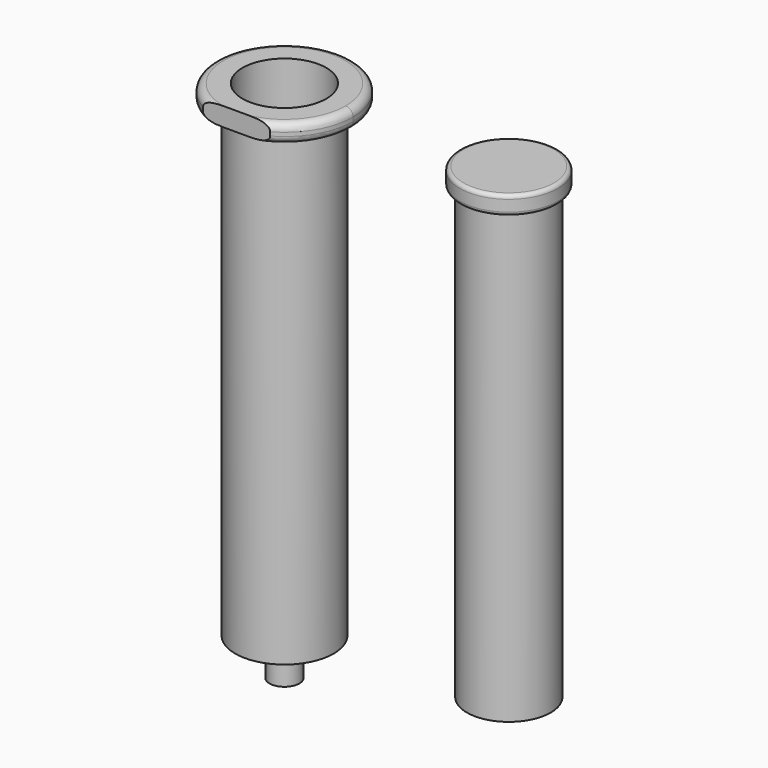
from build123d import *

# Parameters (mm, degrees)
F0_R     = 13.15
F0_R_2   = 11.2
F1_DEPTH = 5
F2_DEPTH = 120
F3_R     = 13.15
F3_R_2   = 11.2
F3_R_3   = 4
F4_DEPTH = 5
F5_DEPTH = 15
F6_R     = 2
F7_R     = 13.1
F7_R_2   = 11.2
F8_DEPTH = 5
F9_DEPTH = 120
F10_R    = 1


with BuildPart() as f1:
    # F0 (on Top) → F1 (new body)
    with BuildSketch(Plane.XY):
        with BuildLine():
            ThreePointArc((8.9845701066, -16), (15.8364983733, -9.2697259545), (18.35, 0))
            ThreePointArc((18.35, 0), (-9.2697259545, 15.8364983733), (-8.9845701066, -16))
            Line((-8.9845701066, -16), (8.9845701066, -16))
        make_face()
        Circle(F0_R, mode=Mode.SUBTRACT)
        Circle(F0_R)
        Circle(F0_R_2, mode=Mode.SUBTRACT)
    extrude(amount=F1_DEPTH)

    # F0 (on Top) → F2 (join)
    with BuildSketch(Plane.XY):
        Circle(F0_R)
        Circle(F0_R_2, mode=Mode.SUBTRACT)
    extrude(amount=-F2_DEPTH)

    # F3 (on face) → F4 (join)
    with BuildSketch(Plane(origin=(0, 0, -120), x_dir=(1, 0, 0), z_dir=(0, 0, -1))):
        Circle(F3_R)
        Circle(F3_R_2, mode=Mode.SUBTRACT)
        Circle(F3_R_2)
        Circle(F3_R_3, mode=Mode.SUBTRACT)
    extrude(amount=F4_DEPTH)

    # F3 (on face) → F5 (join)
    with BuildSketch(Plane(origin=(0, 0, -120), x_dir=(1, 0, 0), z_dir=(0, 0, -1))):
        Circle(F3_R_3)
    extrude(amount=F5_DEPTH)

    # F6
    f6_edges = [f1.edges().sort_by_distance(p)[0] for p in [
        (0, 18.35, 5),
        (0, 18.35, 0),
        (-13.15, 0, 0),
    ]]
    fillet(f6_edges, radius=F6_R)


with BuildPart() as f8:
    # F7 (on Top) → F8 (new body)
    with BuildSketch(Plane.XY):
        with Locations((60, 0)):
            Circle(F7_R)
        with Locations((60, 0)):
            Circle(F7_R_2, mode=Mode.SUBTRACT)
        with Locations((60, 0)):
            Circle(F7_R_2)
    extrude(amount=F8_DEPTH)

    # F7 (on Top) → F9 (join)
    with BuildSketch(Plane.XY):
        with Locations((60, 0)):
            Circle(F7_R_2)
    extrude(amount=-F9_DEPTH)

    # F10
    f10_edges = [f8.edges().sort_by_distance(p)[0] for p in [
        (46.9, 0, 5),
        (46.9, 0, 0),
    ]]
    fillet(f10_edges, radius=F10_R)


solid = Compound([f1.part, f8.part])
